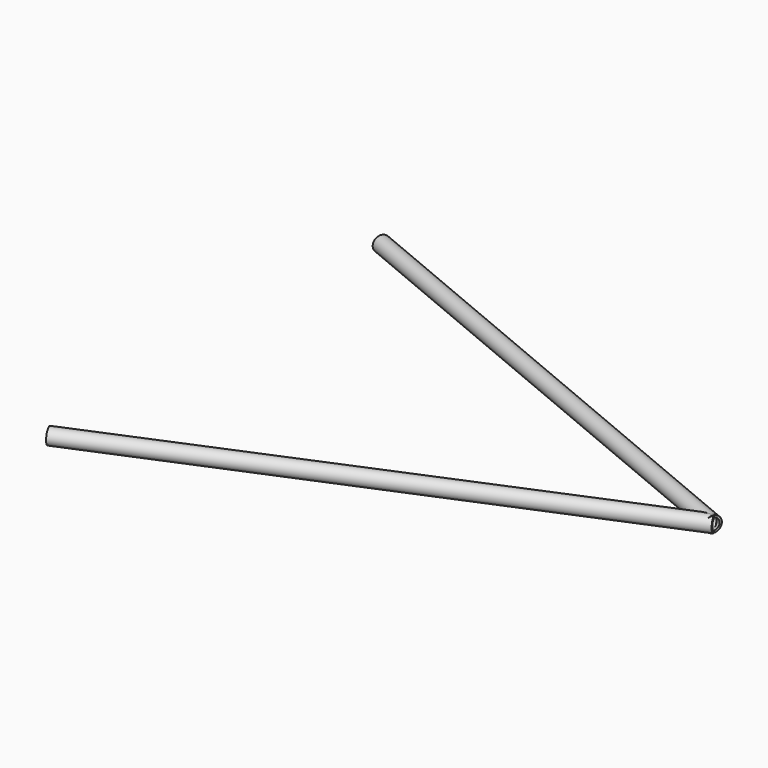
from build123d import *

# Parameters (mm, degrees)
F4_R     = 4.7625
F4_R_2   = 3.5179
F5_DEPTH = 330.2


with BuildPart() as f5:
    # F4 (on 3pt) → F5 (new body)
    with BuildSketch(Plane(origin=(-45.2213167265, -18.9210530236, 0), x_dir=(0.3859853229, -0.9225049217, 0), z_dir=(-0.9225049217, -0.3859853229, 0))):
        with Locations((117.1581250533, 0)):
            Circle(F4_R)
        with Locations((117.1581250533, 0)):
            Circle(F4_R_2, mode=Mode.SUBTRACT)
    extrude(amount=-F5_DEPTH)

    # F6: F5 across plane


with BuildPart() as f5_1:
    add(f5.part)
    add(f5.part.mirror(Plane.XZ))


solid = f5_1.part
